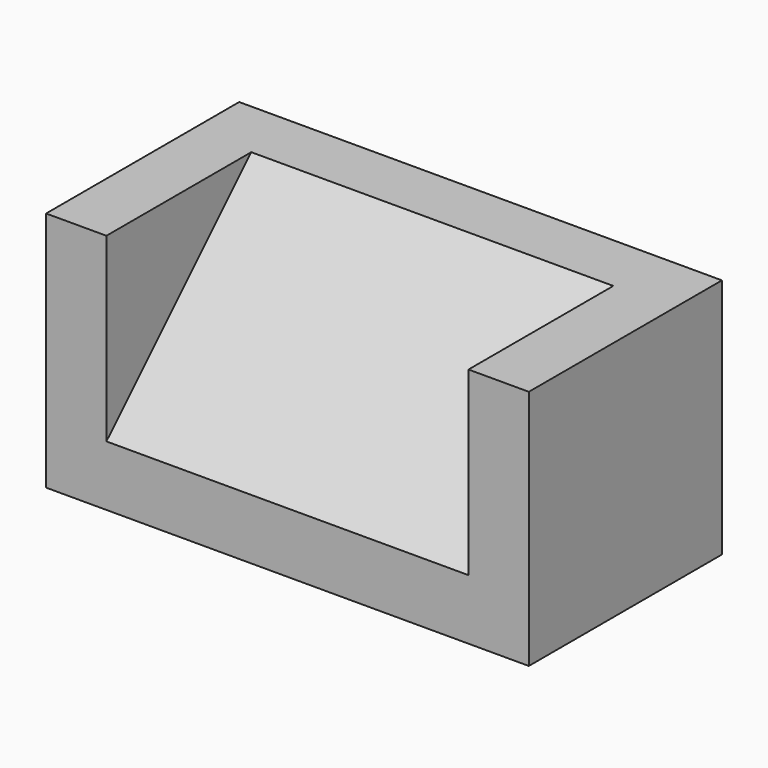
from build123d import *

# Parameters (mm, degrees)
F0_W     = 203.2
F0_H     = 101.6
F1_DEPTH = 101.6
F2_W     = 152.4
F2_H     = 76.2
F3_DEPTH = 76.2
F5_DEPTH = 152.4


with BuildPart() as f1:
    # F0 (on Front) → F1 (new body)
    with BuildSketch(Plane.XZ):
        with Locations((31.895736, 5.454753)):
            Rectangle(F0_W, F0_H)
    extrude(amount=F1_DEPTH)

    # F2 (on face) → F3 (cut)
    with BuildSketch(Plane.XY.offset(56.254753)):
        with Locations((31.895736, -63.5)):
            Rectangle(F2_W, F2_H)
    extrude(amount=-F3_DEPTH, mode=Mode.SUBTRACT)

    # F4 (on face) → F5 (join)
    with BuildSketch(Plane.YZ.offset(-44.304264)):
        Polygon((-25.4, 56.254753), (-101.6, -19.945247), (-25.4, -19.945247), align=None)
    extrude(amount=F5_DEPTH)


solid = f1.part
